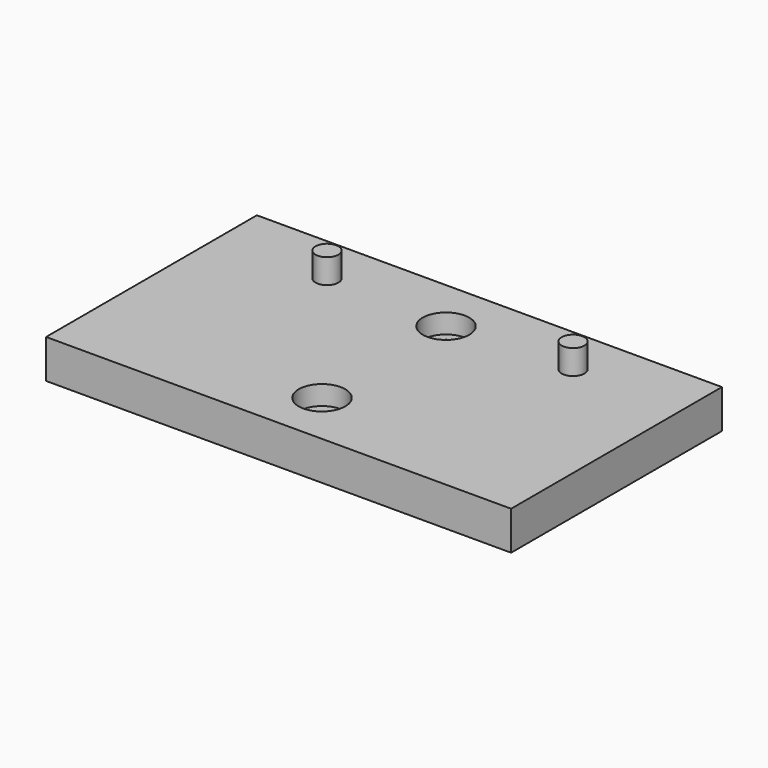
from build123d import *

# Parameters (mm, degrees)
F0_W     = 60
F0_H     = 34
F1_DEPTH = 5
F2_R     = 3
F3_DEPTH = 2.5
F4_R     = 1.85
F5_DEPTH = 2.501
F6_R     = 1.4732
F7_DEPTH = 3.175


with BuildPart() as f1:
    # F0 (on Top) → F1 (new body)
    with BuildSketch(Plane.XY):
        Rectangle(F0_W, F0_H)
    extrude(amount=F1_DEPTH)

    # F2 (on face) → F3 (cut)
    with BuildSketch(Plane.XY.offset(5)):
        with Locations((0, 10)):
            Circle(F2_R)
        with Locations((0, -10)):
            Circle(F2_R)
    extrude(amount=-F3_DEPTH, mode=Mode.SUBTRACT)

    # F4 (on face) → F5 (cut, through all)
    with BuildSketch(Plane.XY.offset(2.5)):
        with Locations((0, 10)):
            Circle(F4_R)
        with Locations((0, -10)):
            Circle(F4_R)
    extrude(amount=-F5_DEPTH, mode=Mode.SUBTRACT)

    # F6 (on face) → F7 (join)
    with BuildSketch(Plane.XY.offset(5)):
        with Locations((-15.875, 10.65)):
            Circle(F6_R)
        with Locations((15.875, 10.65)):
            Circle(F6_R)
    extrude(amount=F7_DEPTH)


solid = f1.part
